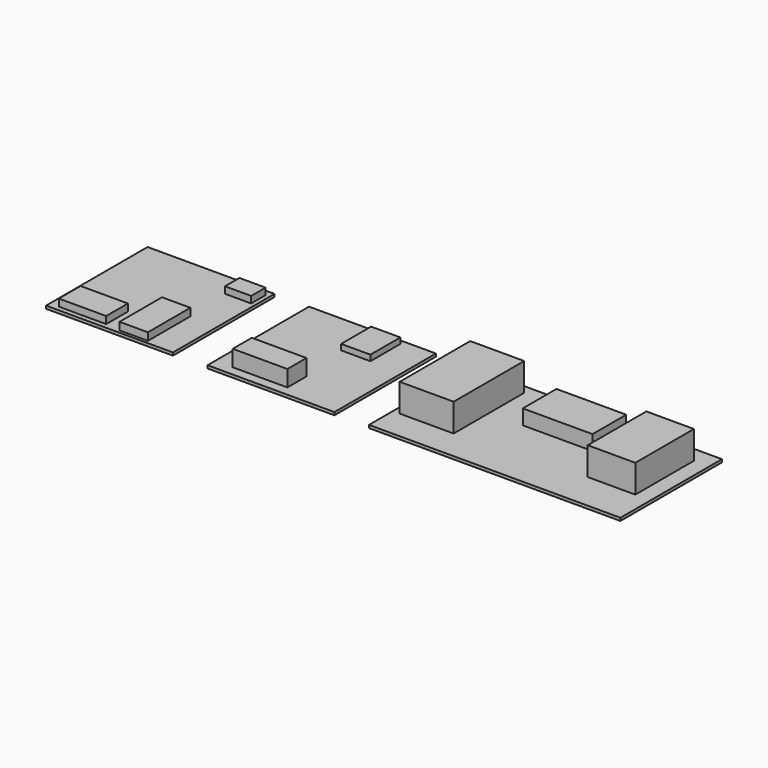
from build123d import *

# Parameters (mm, degrees)
F0_W      = 1107.44
F0_H      = 558.8
F0_W_2    = 237.744
F0_H_2    = 388.366
F0_W_3    = 307.086
F0_H_3    = 185.42
F0_W_4    = 209.55
F0_H_4    = 322.58
F1_DEPTH  = 12.7
F2_DEPTH  = 123.444
F3_DEPTH  = 123.444
F4_DEPTH  = 65.786
F5_W      = 558.8
F5_H      = 558.8
F5_W_2    = 240.792
F5_H_2    = 104.902
F5_W_3    = 128.778
F5_H_3    = 164.846
F6_DEPTH  = 12.7
F7_DEPTH  = 25.4
F8_DEPTH  = 71.628
F9_W      = 558.8
F9_H      = 558.8
F9_W_2    = 208.534
F9_H_2    = 119.634
F9_W_3    = 124.968
F9_H_3    = 233.934
F9_W_4    = 115.316
F9_H_4    = 79.502
F10_DEPTH = 12.7
F11_DEPTH = 31.496
F12_DEPTH = 33.274
F13_DEPTH = 29.21


with BuildPart() as f1:
    # F0 (on Top) → F1 (new body)
    with BuildSketch(Plane.XY):
        with Locations((-553.72, 279.4)):
            Rectangle(F0_W, F0_H)
        with Locations((-958.596, 325.501)):
            Rectangle(F0_W_2, F0_H_2, mode=Mode.SUBTRACT)
        with Locations((-538.607, 420.37)):
            Rectangle(F0_W_3, F0_H_3, mode=Mode.SUBTRACT)
        with Locations((-172.339, 327.66)):
            Rectangle(F0_W_4, F0_H_4, mode=Mode.SUBTRACT)
    extrude(amount=-F1_DEPTH)

    # F0 (on Top) → F2 (join)
    with BuildSketch(Plane.XY):
        with Locations((-958.596, 325.501)):
            Rectangle(F0_W_2, F0_H_2)
    extrude(amount=F2_DEPTH)


with BuildPart() as f3:
    # F0 (on Top) → F3 (new body)
    with BuildSketch(Plane.XY):
        with Locations((-172.339, 327.66)):
            Rectangle(F0_W_4, F0_H_4)
    extrude(amount=F3_DEPTH)


with BuildPart() as f4:
    # F0 (on Top) → F4 (new body)
    with BuildSketch(Plane.XY):
        with Locations((-538.607, 420.37)):
            Rectangle(F0_W_3, F0_H_3)
    extrude(amount=F4_DEPTH)


with BuildPart() as f6:
    # F5 (on Top) → F6 (new body)
    with BuildSketch(Plane.XY):
        with Locations((-1539.24, 279.4)):
            Rectangle(F5_W, F5_H)
        with Locations((-1621.028, 94.615)):
            Rectangle(F5_W_2, F5_H_2, mode=Mode.SUBTRACT)
        with Locations((-1464.183, 455.549)):
            Rectangle(F5_W_3, F5_H_3, mode=Mode.SUBTRACT)
    extrude(amount=-F6_DEPTH)


with BuildPart() as f7:
    # F5 (on Top) → F7 (new body)
    with BuildSketch(Plane.XY):
        with Locations((-1464.183, 455.549)):
            Rectangle(F5_W_3, F5_H_3)
    extrude(amount=F7_DEPTH)


with BuildPart() as f8:
    # F5 (on Top) → F8 (new body)
    with BuildSketch(Plane.XY):
        with Locations((-1621.028, 94.615)):
            Rectangle(F5_W_2, F5_H_2)
    extrude(amount=F8_DEPTH)


with BuildPart() as f10:
    # F9 (on Top) → F10 (new body)
    with BuildSketch(Plane.XY):
        with Locations((-2250.44, 279.4)):
            Rectangle(F9_W, F9_H)
        with Locations((-2386.203, 80.899)):
            Rectangle(F9_W_2, F9_H_2, mode=Mode.SUBTRACT)
        with Locations((-2154.682, 130.429)):
            Rectangle(F9_W_3, F9_H_3, mode=Mode.SUBTRACT)
        with Locations((-2046.478, 492.633)):
            Rectangle(F9_W_4, F9_H_4, mode=Mode.SUBTRACT)
    extrude(amount=-F10_DEPTH)


with BuildPart() as f11:
    # F9 (on Top) → F11 (new body)
    with BuildSketch(Plane.XY):
        with Locations((-2386.203, 80.899)):
            Rectangle(F9_W_2, F9_H_2)
    extrude(amount=F11_DEPTH)


with BuildPart() as f12:
    # F9 (on Top) → F12 (new body)
    with BuildSketch(Plane.XY):
        with Locations((-2154.682, 130.429)):
            Rectangle(F9_W_3, F9_H_3)
    extrude(amount=F12_DEPTH)


with BuildPart() as f13:
    # F9 (on Top) → F13 (new body)
    with BuildSketch(Plane.XY):
        with Locations((-2046.478, 492.633)):
            Rectangle(F9_W_4, F9_H_4)
    extrude(amount=F13_DEPTH)


solid = Compound([f1.part, f3.part, f4.part, f6.part, f7.part, f8.part, f10.part, f11.part, f12.part, f13.part])
